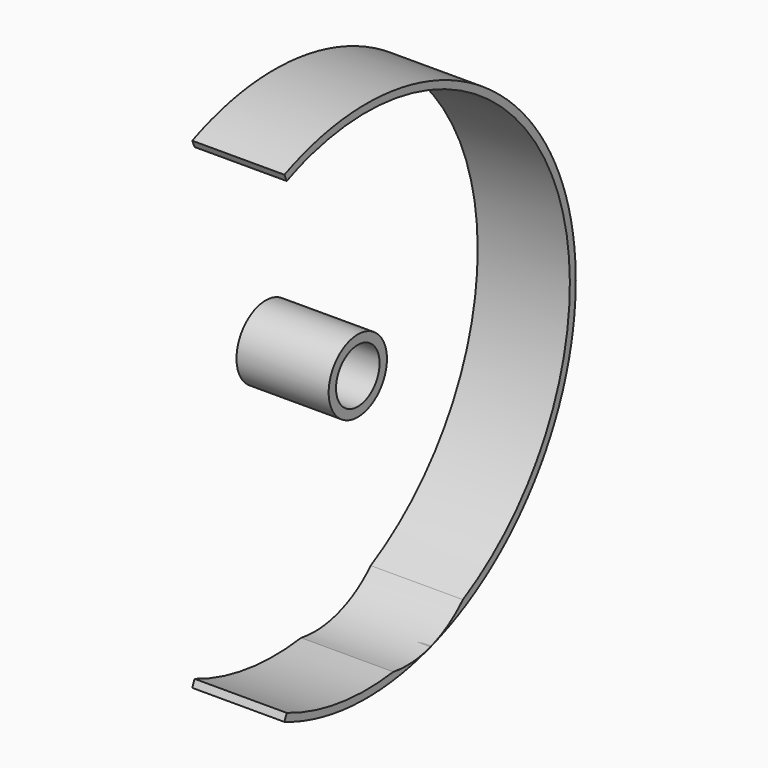
from build123d import *

# Parameters (mm, degrees)
F0_R     = 9.883168
F0_R_2   = 7.383168
F1_DEPTH = 25


with BuildPart() as f1:
    # F0 (on Right) → F1 (new body)
    with BuildSketch(Plane.YZ):
        with Locations((-51.420678, 0)):
            Circle(F0_R)
        with Locations((-51.420678, 0)):
            Circle(F0_R_2, mode=Mode.SUBTRACT)
        with BuildLine():
            ThreePointArc((-76.303846, -72.546273), (22.484036, -7.209962), (-76.303846, 58.12635))
            Line((-76.303846, 58.12635), (-75.515964, 56.28807))
            ThreePointArc((-75.515964, 56.28807), (-71.243647, 57.9395), (-66.871177, 59.303842))
            ThreePointArc((-66.871177, 59.303842), (15.516678, 18.496471), (-15.783335, -67.951834))
            ThreePointArc((-15.783335, -67.951834), (-26.630397, -74.708029), (-39.378156, -75.602216))
            ThreePointArc((-39.378156, -75.602216), (-57.776246, -75.585741), (-75.515964, -70.707993))
            Line((-75.515964, -70.707993), (-76.303846, -72.546273))
        make_face()
    extrude(amount=F1_DEPTH)


solid = f1.part
